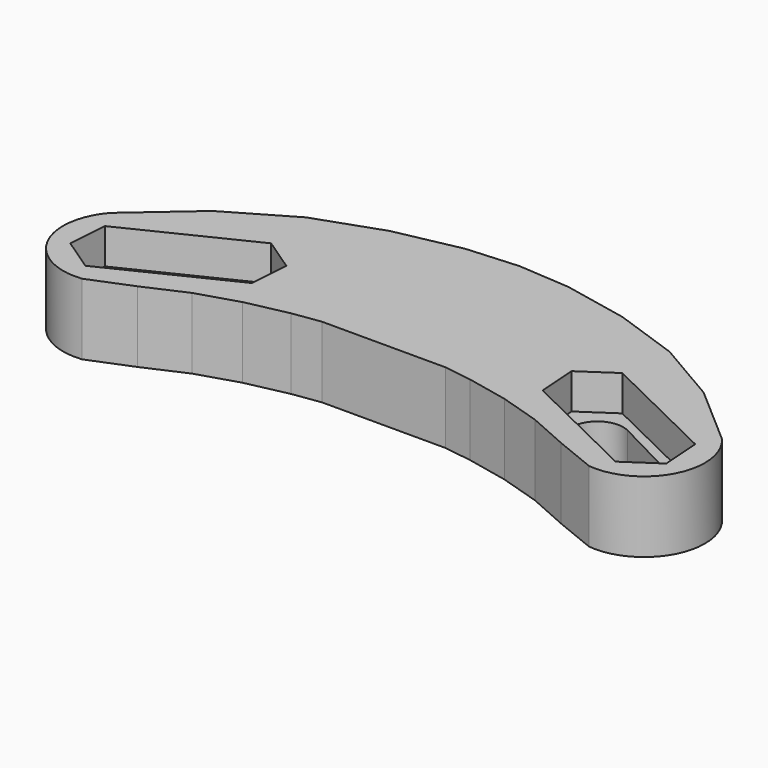
from build123d import *

# Parameters (mm, degrees)
PAD_DEPTH    = 8
POCKET_DEPTH = 4


with BuildPart() as part:
    # Sketch001 → Pad (new body)
    with BuildSketch(Plane.XY):
        with BuildLine():
            ThreePointArc((-34.447941, -1.81802), (-35.378998, -9.500456), (-28.560543, -13.160422))
            Line((-28.560543, -13.160422), (-23.837885, -11.246234))
            Line((-23.837885, -11.246234), (-19.304688, -9.234627))
            Line((-19.304688, -9.234627), (-14.743155, -7.818003))
            Line((-14.743155, -7.818003), (-10.096628, -6.826365))
            Line((-10.096628, -6.826365), (-6.951722, -6.373045))
            Line((-6.951722, -6.373045), (0, -6.373045))
            Line((6.951722, -6.373045), (0, -6.373045))
            Line((10.096628, -6.826365), (6.951722, -6.373045))
            Line((14.743155, -7.818003), (10.096628, -6.826365))
            Line((19.304688, -9.234627), (14.743155, -7.818003))
            Line((23.837885, -11.246234), (19.304688, -9.234627))
            Line((28.560543, -13.160422), (23.837885, -11.246234))
            ThreePointArc((28.560543, -13.160422), (35.378998, -9.500456), (34.447941, -1.81802))
            Line((34.447941, -1.81802), (27.67498, 4.071902))
            Line((27.67498, 4.071902), (20.478533, 8.265109))
            Line((20.478533, 8.265109), (13.112085, 10.843365))
            Line((13.112085, 10.843365), (5.802306, 12.344987))
            Line((5.802306, 12.344987), (0, 12.751387))
            Line((-5.802306, 12.344987), (0, 12.751387))
            Line((-13.112085, 10.843365), (-5.802306, 12.344987))
            Line((-20.478533, 8.265109), (-13.112085, 10.843365))
            Line((-27.67498, 4.071902), (-20.478533, 8.265109))
            Line((-34.447941, -1.81802), (-27.67498, 4.071902))
        make_face()
        with BuildLine():
            ThreePointArc((-19.507144, -4.931658), (-18.255876, -1.006404), (-22.181131, 0.244864))
            Line((-22.181131, 0.244864), (-30.233268, -3.914552))
            ThreePointArc((-30.233268, -3.914552), (-31.484536, -7.839806), (-27.559282, -9.091074))
            Line((-19.507144, -4.931658), (-27.559282, -9.091074))
        make_face(mode=Mode.SUBTRACT)
        with BuildLine():
            ThreePointArc((22.181131, 0.244864), (18.255876, -1.006404), (19.507144, -4.931658))
            Line((19.507144, -4.931658), (27.559282, -9.091074))
            ThreePointArc((27.559282, -9.091074), (31.484536, -7.839806), (30.233268, -3.914552))
            Line((22.181131, 0.244864), (30.233268, -3.914552))
        make_face(mode=Mode.SUBTRACT)
    extrude(amount=PAD_DEPTH)

    # Sketch003 → Pocket (cut)
    with BuildSketch(Plane.XY.offset(8)):
        Polygon((33.25967, -4.087808), (19.777759, 2.487759), (16.06826, -0.01433), (16.380383, -4.477895), (29.862294, -11.053462), (33.571793, -8.551373), align=None)
        Polygon((-33.25967, -4.087808), (-19.777759, 2.487759), (-16.06826, -0.01433), (-16.380383, -4.477895), (-29.862294, -11.053462), (-33.571793, -8.551373), align=None)
    extrude(amount=-POCKET_DEPTH, mode=Mode.SUBTRACT)


solid = part.part
